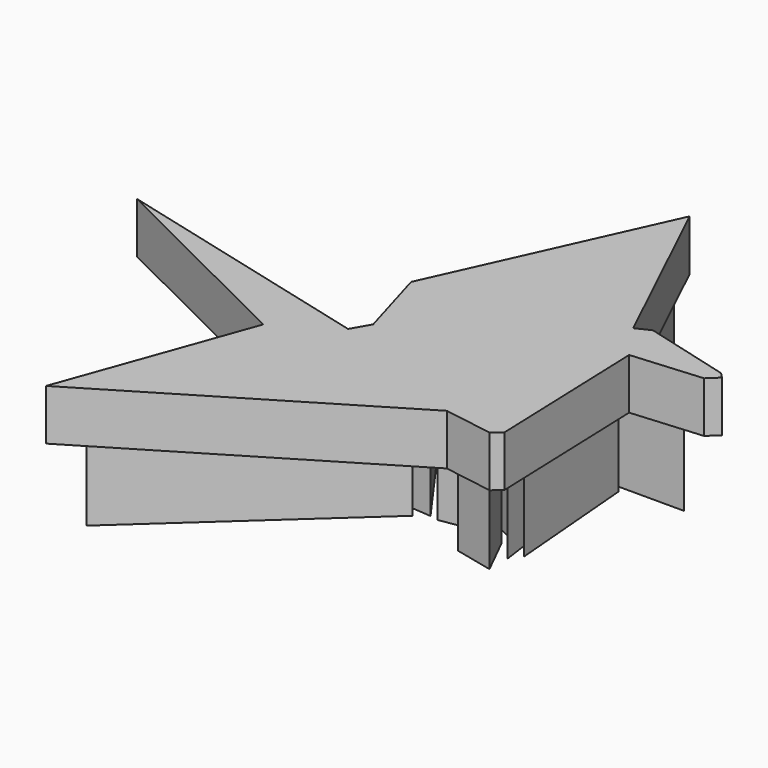
from build123d import *

# Parameters (mm, degrees)
F2_DEPTH = 2
F3_DEPTH = 3


with BuildPart() as f2:
    # F0 (on Top) → F2 (new body)
    with BuildSketch(Plane.XY):
        Polygon((15.693674, 11.295591), (5.209367, 14.004556), (13.469442, 9.900995), (10.812592, 2.530966), (21.472458, 8.937621), (23.408197, 8.623923), (23.752499, 8.929969), (23.526106, 15.342899), (26.296646, 15.569002), (26.696471, 15.948839), (26.490884, 16.165245), (23.071945, 17.083345), (22.508994, 16.814468), (19.211899, 23.717651), (15.249907, 14.952841), (16.106835, 12.0148), align=None)
    extrude(amount=F2_DEPTH)


with BuildPart() as f3:
    # F1 (on face) → F3 (new body)
    with BuildSketch(Plane.XY):
        Polygon((13.948319, 9.564273), (11.591765, 3.535167), (19.013379, 10.314086), (15.983524, 10.451806), align=None)
        Polygon((17.483149, 13.40515), (16.105942, 10.910875), (19.457147, 10.650736), align=None)
        Polygon((21.874908, 10.910875), (17.911613, 13.313336), (19.789428, 10.580754), align=None)
        Polygon((21.559156, 9.373549), (23.083974, 9.019689), (22.2999, 10.59554), align=None)
        Polygon((20.687412, 11.796467), (20.957921, 12.727018), (18.339394, 13.408701), align=None)
        Polygon((22.546863, 10.910875), (23.083974, 9.917685), (22.32087, 15.362685), (22.063516, 15.935294), (20.957921, 11.657914), align=None)
        Polygon((19.750793, 13.313336), (21.06679, 13.066676), (21.7658, 16.065573), (22.229839, 16.484117), (19.427409, 22.671303), align=None)
        Polygon((23.39289, 10.324518), (22.959502, 15.524439), (22.599898, 15.394369), align=None)
        Polygon((25.330141, 15.788756), (22.451926, 16.124187), (22.668332, 15.788756), align=None)
    extrude(amount=-F3_DEPTH)


solid = Compound([f2.part, f3.part])
